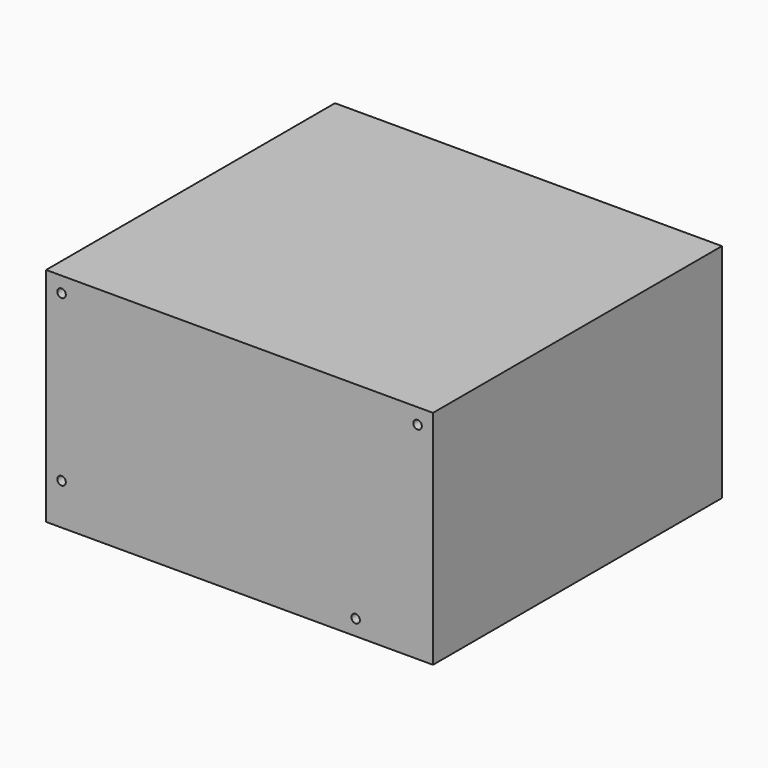
from build123d import *

# Parameters (mm, degrees)
F0_W     = 150
F0_H     = 86
F1_DEPTH = 140
F2_D     = 3.3
F2_DEPTH = 12
F2_TIP   = 0.9914200214
F3_D     = 3.3
F3_DEPTH = 12
F3_TIP   = 0.9914200214
F4_D     = 3.3
F4_DEPTH = 12
F4_TIP   = 0.9914200214
F5_D     = 3.3
F5_DEPTH = 12
F5_TIP   = 0.9914200214


with BuildPart() as f1:
    # F0 (on Front) → F1 (new body)
    with BuildSketch(Plane.XZ):
        Rectangle(F0_W, F0_H)
    extrude(amount=-F1_DEPTH)

    # F2
    with Locations(Plane.XZ):
        with Locations((-69, 37)):
            Hole(F2_D / 2, depth=F2_DEPTH)
            with Locations((0, 0, -(F2_DEPTH + F2_TIP / 2))):  # 118° drill point
                Cone(0, F2_D / 2, F2_TIP, mode=Mode.SUBTRACT)

    # F3
    with Locations(Plane.XZ):
        with Locations((-69, -27)):
            Hole(F3_D / 2, depth=F3_DEPTH)
            with Locations((0, 0, -(F3_DEPTH + F3_TIP / 2))):  # 118° drill point
                Cone(0, F3_D / 2, F3_TIP, mode=Mode.SUBTRACT)

    # F4
    with Locations(Plane.XZ):
        with Locations((69, 37)):
            Hole(F4_D / 2, depth=F4_DEPTH)
            with Locations((0, 0, -(F4_DEPTH + F4_TIP / 2))):  # 118° drill point
                Cone(0, F4_D / 2, F4_TIP, mode=Mode.SUBTRACT)

    # F5
    with Locations(Plane.XZ):
        with Locations((45, -37)):
            Hole(F5_D / 2, depth=F5_DEPTH)
            with Locations((0, 0, -(F5_DEPTH + F5_TIP / 2))):  # 118° drill point
                Cone(0, F5_D / 2, F5_TIP, mode=Mode.SUBTRACT)


solid = f1.part
